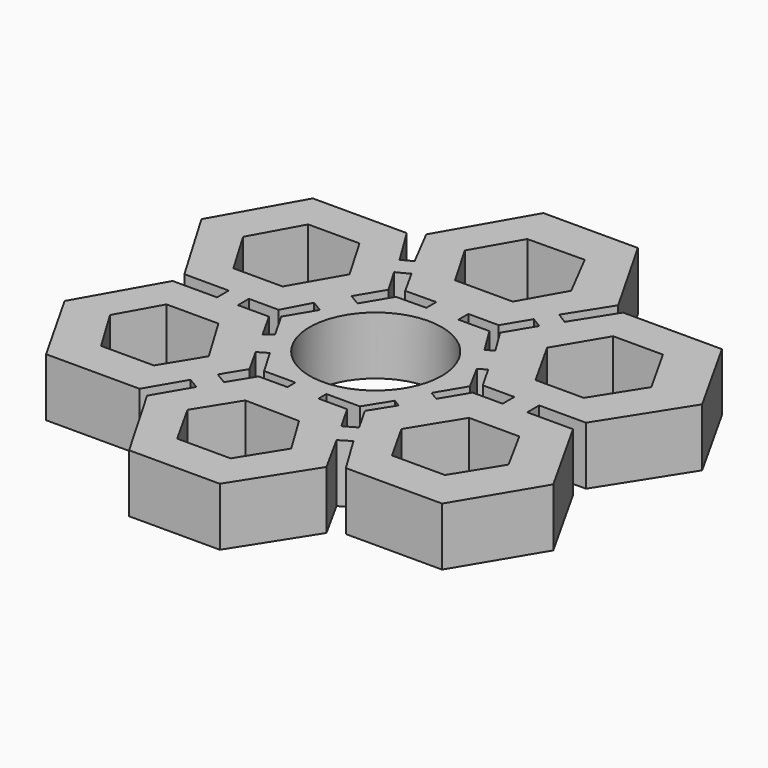
from build123d import *

# Parameters (mm, degrees)
F0_R     = 6.35
F1_DEPTH = 5.588


with BuildPart() as f1:
    # F0 (on Top) → F1 (new body)
    with BuildSketch(Plane.XY):
        Polygon((4.850337, 25.437864), (-4.228426, 25.437864), (-8.932546, 17.23641), (-6.893664, 13.286279), (-7.913105, 12.760089), (-10.211582, 16.488041), (-19.236901, 16.488041), (-23.656916, 8.629121), (-19.068447, 0.841377), (-14.800344, 0.841377), (-14.800344, -0.569267), (-19.068447, -0.569267), (-23.370794, -8.173046), (-19.047294, -15.802811), (-10.057353, -15.802811), (-7.992679, -12.275658), (-6.917777, -12.904869), (-8.919305, -16.324146), (-4.42692, -24.100309), (4.292383, -24.100309), (8.836989, -16.966333), (6.698302, -13.079478), (7.793717, -12.41559), (10.084728, -16.195757), (19.335584, -16.195757), (23.902084, -8.542322), (19.454879, -0.61194), (15.055753, -0.61194), (15.055753, 0.820334), (19.557185, 0.820334), (24.500479, 8.602312), (20.0502, 16.538178), (10.541808, 16.538178), (8.063308, 12.623042), (7.015632, 13.286279), (9.516286, 17.23641), align=None)
        Polygon((-2.673527, -12.323262), (2.558765, -12.41559), (4.9019, -16.281761), (2.347577, -20.372302), (-2.791393, -20.372302), (-5.113728, -16.231047), align=None, mode=Mode.SUBTRACT)
        Polygon((-19.284458, -7.828933), (-17.047726, -3.828624), (-12.058095, -3.828624), (-9.305194, -8.431129), (-11.584939, -12.173353), (-16.6606, -12.173353), align=None, mode=Mode.SUBTRACT)
        Polygon((-5.611179, -8.153478), (-6.985654, -5.693893), (-6.045224, -5.151337), (-4.569907, -7.708554), (-1.560098, -7.708554), (-1.560098, -8.659863), (-4.345217, -8.659863), (-5.783097, -11.016389), (-6.930758, -10.316121), align=None, mode=Mode.SUBTRACT)
        Polygon((-9.927894, 0.740779), (-8.559196, 3.295684), (-7.493752, 2.658462), (-9.08373, 0), (-7.612971, -2.58519), (-8.378716, -3.115653), (-9.801803, -0.577965), (-12.786955, -0.577965), (-12.786955, 0.740779), align=None, mode=Mode.SUBTRACT)
        Circle(F0_R, mode=Mode.SUBTRACT)
        Polygon((1.425454, -8.659863), (1.425454, -7.708554), (4.64753, -7.708554), (6.123088, -5.345567), (6.811032, -5.775151), (5.39455, -8.043533), (6.744049, -10.426221), (5.563155, -11.095052), (4.183921, -8.659863), align=None, mode=Mode.SUBTRACT)
        Polygon((9.052756, 0), (7.676018, 2.54796), (8.430281, 2.977073), (9.709381, 0.728767), (12.740129, 0.728767), (12.740129, -0.674656), (9.850005, -0.674656), (8.359578, -3.166668), (7.47518, -2.637726), align=None, mode=Mode.SUBTRACT)
        Polygon((11.511659, -12.436375), (9.375006, -8.634387), (12.20293, -4.046865), (17.041823, -4.046865), (19.272742, -8.131645), (16.601923, -12.436375), align=None, mode=Mode.SUBTRACT)
        Polygon((-19.42525, 8.33735), (-16.867618, 12.966663), (-11.931389, 12.966663), (-9.373757, 8.567536), (-12.05927, 3.887071), (-16.790888, 3.887071), align=None, mode=Mode.SUBTRACT)
        Polygon((-5.531086, 8.437562), (-6.984751, 10.933847), (-5.800158, 11.545281), (-4.429846, 9.078498), (-1.478518, 9.113127), (-1.46454, 7.921814), (-4.370745, 7.887715), (-5.950622, 5.246141), (-7.047472, 5.902147), align=None, mode=Mode.SUBTRACT)
        Polygon((-5.042579, 17.007749), (-2.5361, 21.381299), (2.933688, 21.445477), (5.290253, 16.879867), (2.962808, 12.760089), (-2.587253, 12.760089), align=None, mode=Mode.SUBTRACT)
        Polygon((1.614482, 7.921814), (1.614482, 9.113127), (4.530643, 9.113127), (5.981318, 11.518419), (6.998032, 10.905221), (5.379989, 8.222425), (6.919887, 5.724828), (6.216966, 5.291441), (4.595204, 7.921814), align=None, mode=Mode.SUBTRACT)
        Polygon((9.657924, 8.519574), (12.368077, 13.074742), (17.150848, 13.074742), (19.771752, 8.401072), (16.902813, 3.869183), (12.265772, 3.869183), align=None, mode=Mode.SUBTRACT)
    extrude(amount=F1_DEPTH)


solid = f1.part
